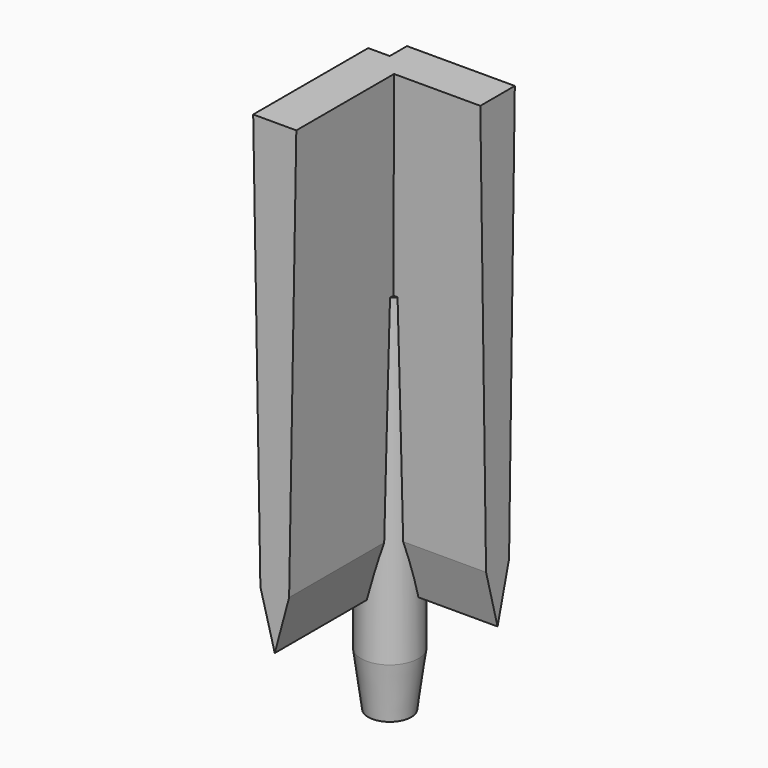
from build123d import *

# Parameters (mm, degrees)
F3_DEPTH = 4
F5_DEPTH = 3


with BuildPart() as f1:
    # F0 (on Front) → F1 (revolve)
    with BuildSketch(Plane.XZ):
        Polygon((-0.25, 10.5), (-0.8, 10.5), (-0.8, 1.5), (-0.6, 0), (-0.5, 0), (-0.5, 10), align=None)
    revolve(axis=Axis((0, 0, 5.25), (0, 0, -1)))

    # F2 (on Front) → F3 (join)
    with BuildSketch(Plane.XZ):
        Polygon((0.6, 16), (-0.6, 16), (-0.4, 4.49282), (0, 3), (0.4, 4.49282), align=None)
    extrude(amount=F3_DEPTH)

    # F4 (on Right) → F5 (join)
    with BuildSketch(Plane.YZ):
        Polygon((0.6, 16), (-0.6, 16), (-0.4, 4.49282), (0, 3), (0.4, 4.49282), align=None)
    extrude(amount=F5_DEPTH)


solid = f1.part
